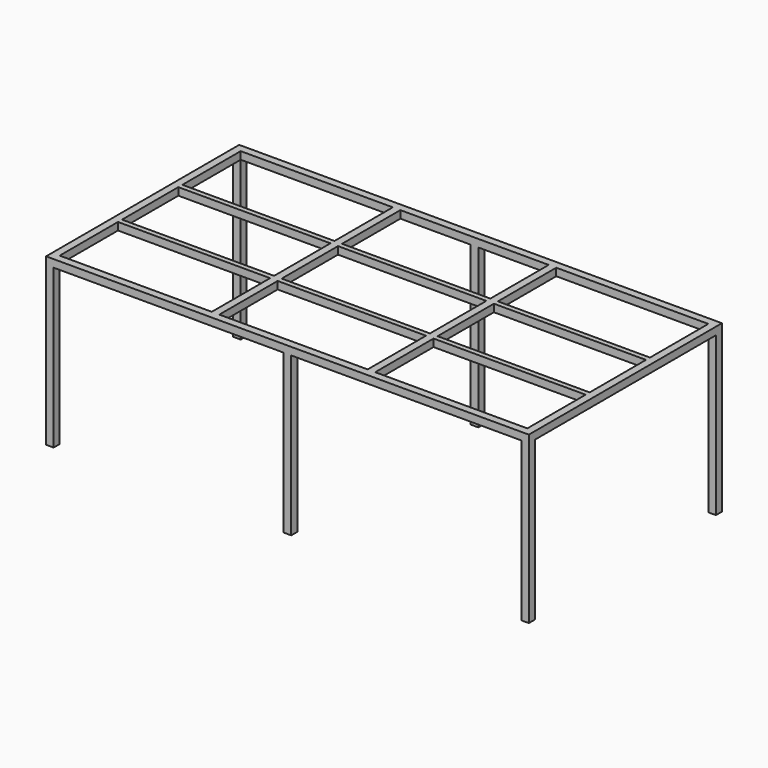
from build123d import *

# Parameters (mm, degrees)
F0_W     = 38.1
F0_H     = 38.1
F0_H_2   = 368.3
F0_H_3   = 25.4
F1_DEPTH = 38.1
F2_DEPTH = 800.1
F0_W_2   = 768.35
F3_DEPTH = 38.1


with BuildPart() as f1:
    # F0 (on Top) → F1 (new body)
    with BuildSketch(Plane.XY):
        with Locations((1200.15, 590.55)):
            Rectangle(F0_W, F0_H)
        Polygon((1181.1, 571.5), (1181.1, 609.6), (19.05, 609.6), (19.05, 571.5), (374.65, 571.5), (412.75, 571.5), align=None)
        Polygon((1219.2, -571.5), (1219.2, 571.5), (1181.1, 571.5), (1181.1, 203.2), (1181.1, 177.8), (1181.1, 0), (1181.1, -177.8), (1181.1, -203.2), (1181.1, -571.5), align=None)
        Polygon((19.05, 571.5), (19.05, 609.6), (-19.05, 609.6), (-19.05, 571.5), (0, 571.5), align=None)
        with Locations((1200.15, -590.55)):
            Rectangle(F0_W, F0_H)
        Polygon((-19.05, 571.5), (-19.05, 609.6), (-1181.1, 609.6), (-1181.1, 571.5), (-412.75, 571.5), (-374.65, 571.5), align=None)
        Polygon((1181.1, -609.6), (1181.1, -571.5), (412.75, -571.5), (374.65, -571.5), (19.05, -571.5), (19.05, -609.6), align=None)
        with Locations((-1200.15, 590.55)):
            Rectangle(F0_W, F0_H)
        Polygon((-1181.1, 203.2), (-1181.1, 571.5), (-1219.2, 571.5), (-1219.2, -571.5), (-1181.1, -571.5), (-1181.1, -203.2), (-1181.1, -177.8), (-1181.1, 0), (-1181.1, 177.8), align=None)
        with Locations((0, -590.55)):
            Rectangle(F0_W, F0_H)
        Polygon((-1181.1, -609.6), (-19.05, -609.6), (-19.05, -571.5), (-374.65, -571.5), (-412.75, -571.5), (-1181.1, -571.5), align=None)
        with Locations((-1200.15, -590.55)):
            Rectangle(F0_W, F0_H)
        with Locations((-393.7, 387.35)):
            Rectangle(F0_W, F0_H_2)
        with Locations((-393.7, -387.35)):
            Rectangle(F0_W, F0_H_2)
        with Locations((393.7, 387.35)):
            Rectangle(F0_W, F0_H_2)
        with Locations((393.7, -387.35)):
            Rectangle(F0_W, F0_H_2)
        Polygon((412.75, -177.8), (412.75, 0), (393.7, 0), (374.65, 0), (374.65, -177.8), align=None)
        Polygon((412.75, 0), (412.75, 177.8), (374.65, 177.8), (374.65, 0), (393.7, 0), align=None)
        with Locations((393.7, -190.5)):
            Rectangle(F0_W, F0_H_3)
        with Locations((393.7, 190.5)):
            Rectangle(F0_W, F0_H_3)
        with Locations((-393.7, -190.5)):
            Rectangle(F0_W, F0_H_3)
        Polygon((-374.65, -177.8), (-374.65, 0), (-393.7, 0), (-412.75, 0), (-412.75, -177.8), align=None)
        Polygon((-374.65, 0), (-374.65, 177.8), (-412.75, 177.8), (-412.75, 0), (-393.7, 0), align=None)
        with Locations((-393.7, 190.5)):
            Rectangle(F0_W, F0_H_3)
    extrude(amount=F1_DEPTH)

    # F0 (on Top) → F2 (join)
    with BuildSketch(Plane.XY):
        with Locations((1200.15, 590.55)):
            Rectangle(F0_W, F0_H)
        with Locations((1200.15, -590.55)):
            Rectangle(F0_W, F0_H)
        with Locations((0, -590.55)):
            Rectangle(F0_W, F0_H)
        Polygon((19.05, 571.5), (19.05, 609.6), (-19.05, 609.6), (-19.05, 571.5), (0, 571.5), align=None)
        with Locations((-1200.15, 590.55)):
            Rectangle(F0_W, F0_H)
        with Locations((-1200.15, -590.55)):
            Rectangle(F0_W, F0_H)
    extrude(amount=-F2_DEPTH)

    # F0 (on Top) → F3 (join)
    with BuildSketch(Plane.XY):
        Polygon((-374.65, -203.2), (374.65, -203.2), (374.65, -177.8), (0, -177.8), (-374.65, -177.8), align=None)
        Polygon((374.65, 177.8), (374.65, 203.2), (0, 203.2), (0, 190.5), (0, 177.8), align=None)
        with Locations((-796.925, 190.5)):
            Rectangle(F0_W_2, F0_H_3)
        Polygon((0, 190.5), (0, 203.2), (-374.65, 203.2), (-374.65, 177.8), (0, 177.8), align=None)
        with Locations((-796.925, -190.5)):
            Rectangle(F0_W_2, F0_H_3)
        with Locations((796.925, -190.5)):
            Rectangle(F0_W_2, F0_H_3)
        with Locations((796.925, 190.5)):
            Rectangle(F0_W_2, F0_H_3)
    extrude(amount=F3_DEPTH)


solid = f1.part
